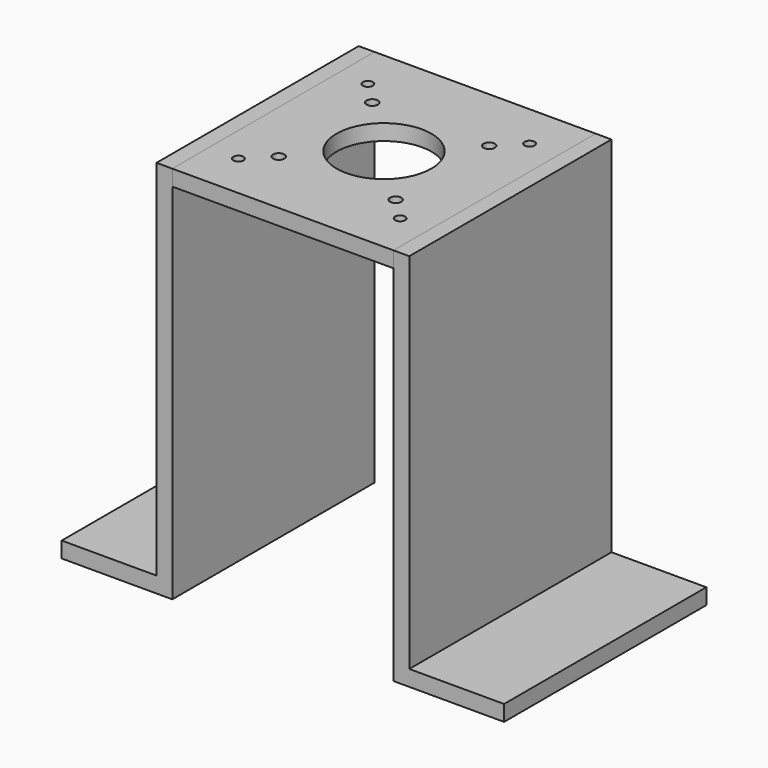
from build123d import *

# Parameters (mm, degrees)
F1_W     = 88.9
F1_H     = 101.6
F1_R     = 2.032
F1_R_2   = 2.286
F1_R_3   = 19.05
F2_DEPTH = 6.35
F1_W_2   = 6.35
F3_DEPTH = 152.4
F4_W     = 101.6
F4_H     = 6.35
F5_DEPTH = 38.1
F6_W     = 101.6
F6_H     = 6.35
F7_DEPTH = 38.1


with BuildPart() as f2:
    # F1 (on offset) → F2 (new body)
    with BuildSketch(Plane.XY.offset(152.4)):
        Rectangle(F1_W, F1_H)
        with Locations((-32.512, -32.512)):
            Circle(F1_R, mode=Mode.SUBTRACT)
        with Locations((-23.495, -23.495)):
            Circle(F1_R_2, mode=Mode.SUBTRACT)
        Circle(F1_R_3, mode=Mode.SUBTRACT)
        with Locations((32.512, -32.512)):
            Circle(F1_R, mode=Mode.SUBTRACT)
        with Locations((23.495, -23.495)):
            Circle(F1_R_2, mode=Mode.SUBTRACT)
        with Locations((-23.495, 23.495)):
            Circle(F1_R_2, mode=Mode.SUBTRACT)
        with Locations((-32.512, 32.512)):
            Circle(F1_R, mode=Mode.SUBTRACT)
        with Locations((23.495, 23.495)):
            Circle(F1_R_2, mode=Mode.SUBTRACT)
        with Locations((32.512, 32.512)):
            Circle(F1_R, mode=Mode.SUBTRACT)
    extrude(amount=-F2_DEPTH)


with BuildPart() as f3:
    # F1 (on offset) → F3 (new body)
    with BuildSketch(Plane.XY.offset(152.4)):
        with Locations((-47.625, 0)):
            Rectangle(F1_W_2, F1_H)
    extrude(amount=-F3_DEPTH)

    # F6 (on face) → F7 (join)
    with BuildSketch(Plane(origin=(-50.8, 0, 0), x_dir=(0, -1, 0), z_dir=(-1, 0, 0))):
        with Locations((0, 3.175)):
            Rectangle(F6_W, F6_H)
    extrude(amount=F7_DEPTH)


with BuildPart() as f3b:
    # F1 (on offset) → F3, piece 2 (new body)
    with BuildSketch(Plane.XY.offset(152.4)):
        with Locations((47.625, 0)):
            Rectangle(F1_W_2, F1_H)
    extrude(amount=-F3_DEPTH)

    # F4 (on face) → F5 (join)
    with BuildSketch(Plane.YZ.offset(50.8)):
        with Locations((0, 3.175)):
            Rectangle(F4_W, F4_H)
    extrude(amount=F5_DEPTH)


solid = Compound([f2.part, f3.part, f3b.part])
